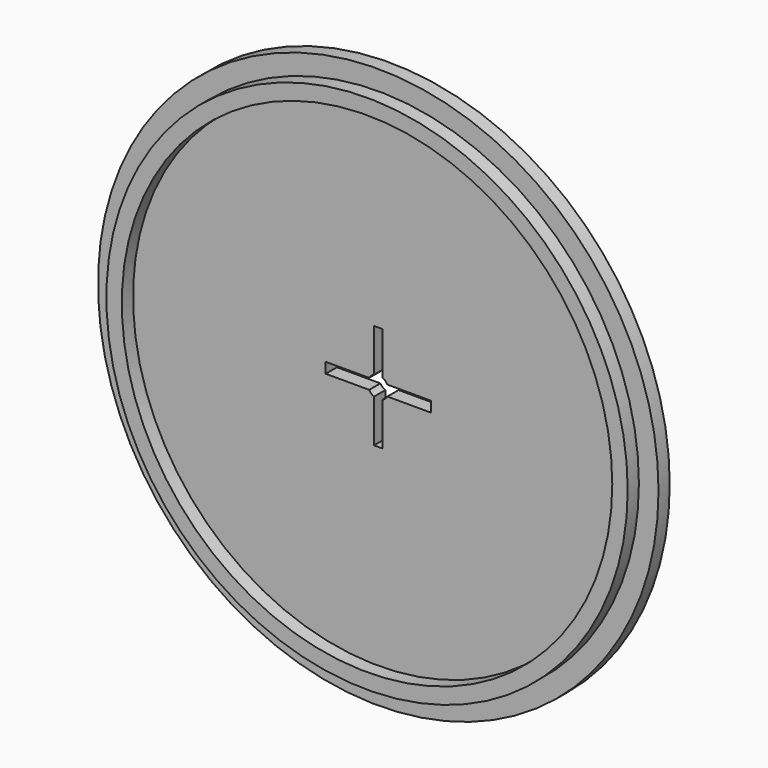
from build123d import *

# Parameters (mm, degrees)
F0_R     = 40
F1_DEPTH = 2
F2_R     = 37.2
F2_R_2   = 35
F3_DEPTH = 2
F5_DEPTH = 25
F6_DEPTH = 25


with BuildPart() as f1:
    # F0 (on Front) → F1 (new body)
    with BuildSketch(Plane.XZ):
        Circle(F0_R)
    extrude(amount=F1_DEPTH)

    # F2 (on face) → F3 (join)
    with BuildSketch(Plane.XZ.offset(2)):
        Circle(F2_R)
        Circle(F2_R_2, mode=Mode.SUBTRACT)
    extrude(amount=F3_DEPTH)

    # F4 (on face) → F5 (cut)
    with BuildSketch(Plane.XZ.offset(2)):
        with BuildLine():
            Line((0.6, 7.5), (-0.6, 7.5))
            Line((-0.6, 7.5), (-0.6, 1.374773))
            ThreePointArc((-0.6, 1.374773), (0, 1.5), (0.6, 1.374773))
            Line((0.6, 1.374773), (0.6, 7.5))
        make_face()
        with BuildLine():
            Line((-0.6, 0.75), (-0.6, 1.374773))
            ThreePointArc((-0.6, 1.374773), (-0.999586, 1.118404), (-1.299038, 0.75))
            Line((-1.299038, 0.75), (-0.6, 0.75))
        make_face()
        with BuildLine():
            ThreePointArc((1.299038, 0.75), (0.999586, 1.118404), (0.6, 1.374773))
            Line((0.6, 1.374773), (0.6, 0.75))
            Line((0.6, 0.75), (1.299038, 0.75))
        make_face()
        with BuildLine():
            ThreePointArc((-1.299038, -0.75), (-1.5, 0), (-1.299038, 0.75))
            Line((-1.299038, 0.75), (-7.5, 0.75))
            Line((-7.5, 0.75), (-7.5, -0.75))
            Line((-7.5, -0.75), (-1.299038, -0.75))
        make_face()
        with BuildLine():
            Line((7.5, 0.75), (1.299038, 0.75))
            ThreePointArc((1.299038, 0.75), (1.448889, 0.388229), (1.5, 0))
            ThreePointArc((1.5, 0), (1.448889, -0.388229), (1.299038, -0.75))
            Line((1.299038, -0.75), (7.5, -0.75))
            Line((7.5, -0.75), (7.5, 0.75))
        make_face()
        with BuildLine():
            Line((-0.6, -1.374773), (-0.6, -0.75))
            Line((-0.6, -0.75), (-1.299038, -0.75))
            ThreePointArc((-1.299038, -0.75), (-0.999586, -1.118404), (-0.6, -1.374773))
        make_face()
        with BuildLine():
            Line((1.299038, -0.75), (0.6, -0.75))
            Line((0.6, -0.75), (0.6, -1.374773))
            ThreePointArc((0.6, -1.374773), (0.999586, -1.118404), (1.299038, -0.75))
        make_face()
        with BuildLine():
            ThreePointArc((0.6, -1.374773), (0, -1.5), (-0.6, -1.374773))
            Line((-0.6, -1.374773), (-0.6, -7.5))
            Line((-0.6, -7.5), (0.6, -7.5))
            Line((0.6, -7.5), (0.6, -1.374773))
        make_face()
    extrude(amount=-F5_DEPTH, mode=Mode.SUBTRACT)

    # F5_face (on face) → F6 (cut)
    with BuildSketch(Plane.XZ.offset(2)):
        with BuildLine():
            ThreePointArc((-0.6, -1.374773), (0, -1.5), (0.6, -1.374773))
            Line((0.6, -1.374773), (0.6, -0.75))
            Line((0.6, -0.75), (1.299038, -0.75))
            ThreePointArc((1.299038, -0.75), (1.5, 0), (1.299038, 0.75))
            Line((1.299038, 0.75), (0.6, 0.75))
            Line((0.6, 0.75), (0.6, 1.374773))
            ThreePointArc((0.6, 1.374773), (0, 1.5), (-0.6, 1.374773))
            Line((-0.6, 1.374773), (-0.6, 0.75))
            Line((-0.6, 0.75), (-1.299038, 0.75))
            ThreePointArc((-1.299038, 0.75), (-1.5, 0), (-1.299038, -0.75))
            Line((-1.299038, -0.75), (-0.6, -0.75))
            Line((-0.6, -0.75), (-0.6, -1.374773))
        make_face()
    extrude(amount=-F6_DEPTH, mode=Mode.SUBTRACT)


solid = f1.part
